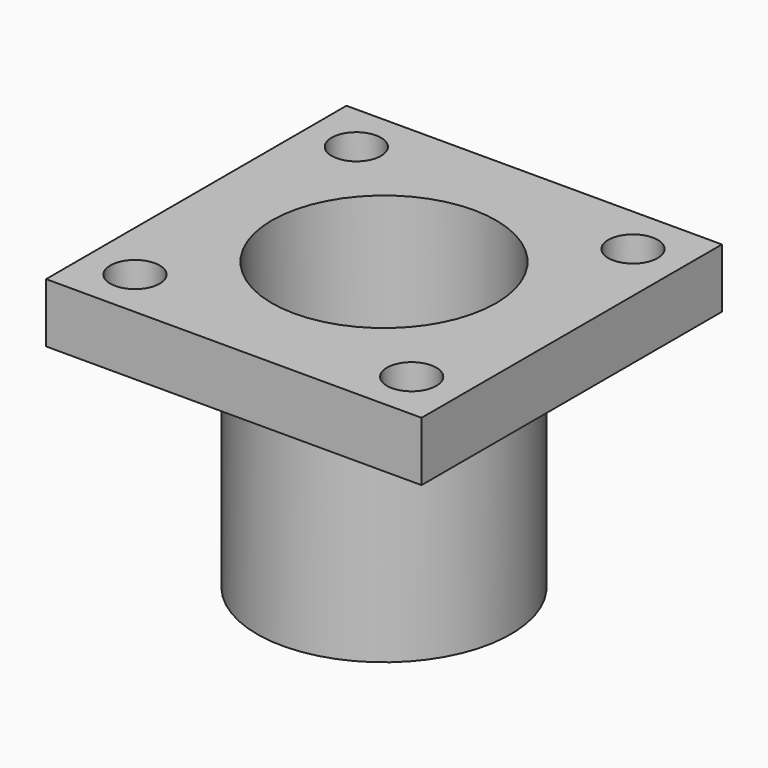
from build123d import *

# Parameters (mm, degrees)
SKETCH001_R   = 9.5
POCKET_DEPTH  = 2
SKETCH002_W   = 38
SKETCH002_H   = 38
SKETCH002_R   = 11.35
SKETCH002_R_2 = 2.5
PAD_DEPTH     = 6


with BuildPart() as part:
    # Sketch → Revolution (revolve)
    with BuildSketch(Plane.XZ):
        Polygon((-11.35, 27), (-11.35, 2), (0, 2), (0, 0), (-12.85, 0), (-12.85, 27), (-12.85, 29), (-11.35, 29), align=None)
    revolve(axis=Axis((0, 0, 0), (0, 0, 1)))

    # Sketch001 (on Face3 of Revolution) → Pocket (cut)
    with BuildSketch(Plane(origin=(0, 0, 0), x_dir=(1, 0, 0), z_dir=(0, 0, -1))):
        Circle(SKETCH001_R)
    extrude(amount=-POCKET_DEPTH, mode=Mode.SUBTRACT)

    # Sketch002 (on Face4 of Pocket) → Pad (join)
    with BuildSketch(Plane(origin=(0, 0, 29), x_dir=(-1, 0, 0), z_dir=(0, 0, 1))):
        Rectangle(SKETCH002_W, SKETCH002_H)
        Circle(SKETCH002_R, mode=Mode.SUBTRACT)
        with Locations((-14, 14)):
            Circle(SKETCH002_R_2, mode=Mode.SUBTRACT)
        with Locations((14, 14)):
            Circle(SKETCH002_R_2, mode=Mode.SUBTRACT)
        with Locations((14, -14)):
            Circle(SKETCH002_R_2, mode=Mode.SUBTRACT)
        with Locations((-14, -14)):
            Circle(SKETCH002_R_2, mode=Mode.SUBTRACT)
    extrude(amount=-PAD_DEPTH)


solid = part.part
